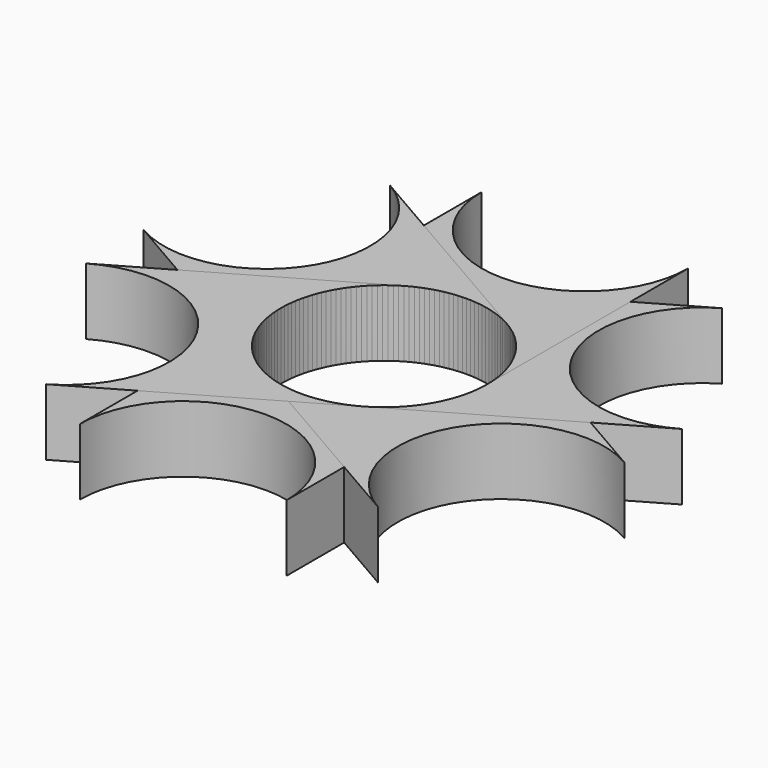
from build123d import *

# Parameters (mm, degrees)
F1_DEPTH = 7.199782
F3_DEPTH = 7.200782
F5_COUNT = 6


with BuildPart() as f1:
    # F0 (on Top) → F1 (new body)
    with BuildSketch(Plane.XY):
        with BuildLine():
            ThreePointArc((-11.176, 0), (0, -11.176), (11.176, 0))
            ThreePointArc((11.176, 0), (0, 11.176), (-11.176, 0))
        make_face()
        with BuildLine():
            Line((11.176, -27.178), (11.176, 0))
            ThreePointArc((11.176, 0), (0, -11.176), (-11.176, 0))
            Line((-11.176, 0), (-11.176, -27.178))
            ThreePointArc((-11.176, -27.178), (0, -16.002), (11.176, -27.178))
        make_face()
        with BuildLine():
            ThreePointArc((-11.176, -27.178), (0, -38.354), (11.176, -27.178))
            ThreePointArc((11.176, -27.178), (0, -16.002), (-11.176, -27.178))
        make_face()
    extrude(amount=F1_DEPTH)

    # F2 (on face) → F3 (cut, through all)
    with BuildSketch(Plane.XY.offset(7.199782)):
        with BuildLine():
            ThreePointArc((-11.176, 0), (0, -11.176), (11.176, 0))
            ThreePointArc((11.176, 0), (0, 11.176), (-11.176, 0))
        make_face()
        with BuildLine():
            ThreePointArc((-11.176, -27.178), (0, -38.354), (11.176, -27.178))
            ThreePointArc((11.176, -27.178), (0, -16.002), (-11.176, -27.178))
        make_face()
    extrude(amount=-F3_DEPTH, mode=Mode.SUBTRACT)


with BuildPart() as f5_1:
    # F5: instance of F1
    add(f1.part.rotate(Axis((0, 0, 19.541737), (0, 0, 1)), 1 * 360 / F5_COUNT))


with BuildPart() as f5_2:
    # F5: instance of F1
    add(f1.part.rotate(Axis((0, 0, 19.541737), (0, 0, 1)), 2 * 360 / F5_COUNT))


with BuildPart() as f5_3:
    # F5: instance of F1
    add(f1.part.rotate(Axis((0, 0, 19.541737), (0, 0, 1)), 3 * 360 / F5_COUNT))


with BuildPart() as f5_4:
    # F5: instance of F1
    add(f1.part.rotate(Axis((0, 0, 19.541737), (0, 0, 1)), 4 * 360 / F5_COUNT))


with BuildPart() as f5_5:
    # F5: instance of F1
    add(f1.part.rotate(Axis((0, 0, 19.541737), (0, 0, 1)), 5 * 360 / F5_COUNT))


solid = Compound([f1.part, f5_1.part, f5_2.part, f5_3.part, f5_4.part, f5_5.part])
